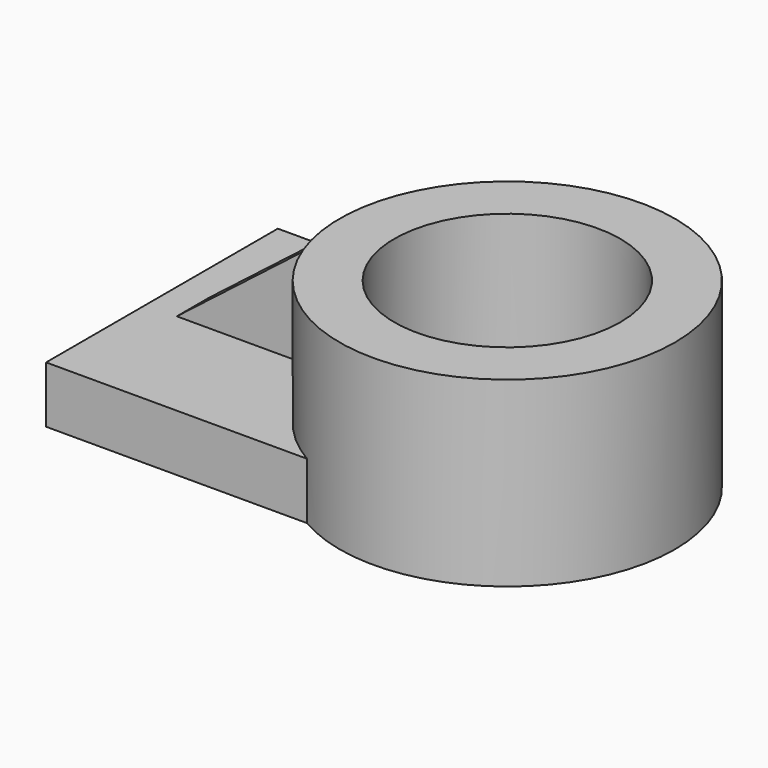
from build123d import *

# Parameters (mm, degrees)
F0_R     = 41.4149264742
F0_R_2   = 27.9229275401
F1_DEPTH = 45
F3_DEPTH = 14
F5_DEPTH = 5


with BuildPart() as f1:
    # F0 (on Top) → F1 (new body)
    with BuildSketch(Plane.XY):
        with Locations((32.4097648263, 0)):
            Circle(F0_R)
        with Locations((32.4097648263, 0)):
            Circle(F0_R_2, mode=Mode.SUBTRACT)
    extrude(amount=F1_DEPTH)

    # F2 (on face) → F3 (join)
    with BuildSketch(Plane(origin=(0, 0, 0), x_dir=(1, 0, 0), z_dir=(0, 0, -1))):
        with BuildLine():
            Line((-52.9098688311, -35.7817081915), (11.5563360013, -35.7817081915))
            ThreePointArc((11.5563360013, -35.7817081915), (-9.0051616479, 0), (11.5563360013, 35.7817081915))
            Line((11.5563360013, 35.7817081915), (-52.9098688311, 35.7817081915))
            Line((-52.9098688311, 35.7817081915), (-52.9098688311, -35.7817081915))
        make_face()
    extrude(amount=-F3_DEPTH)

    # F4 (on Front) → F5 (join, symmetric)
    with BuildSketch(Plane.XZ):
        Polygon((-6.9038993679, 43.7489598989), (-47.6915575564, 12.0960362256), (-6.9038993679, 12.0960362256), align=None)
    extrude(amount=F5_DEPTH, both=True)


solid = f1.part
